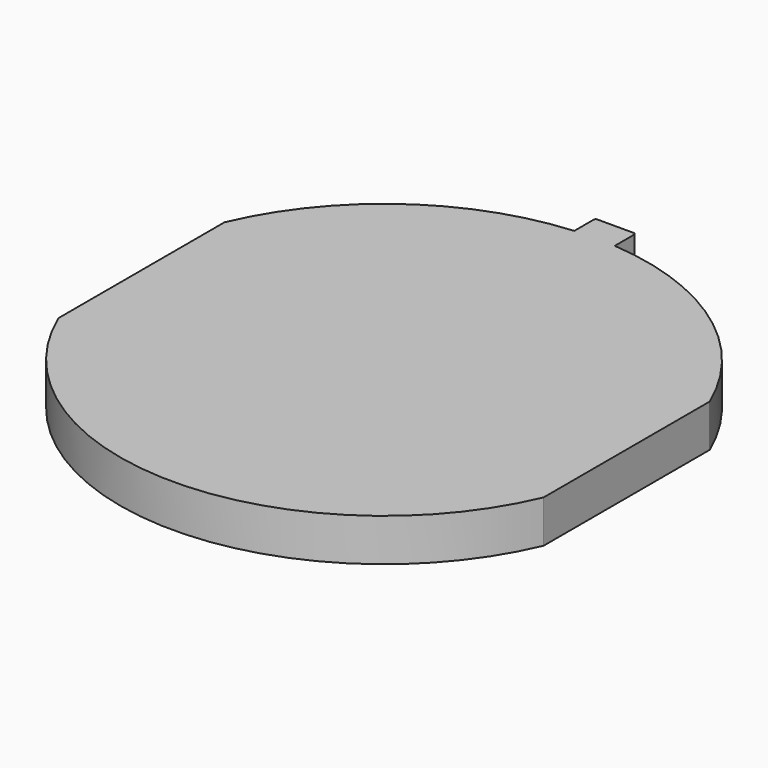
from build123d import *

# Parameters (mm, degrees)
F1_DEPTH = 5


with BuildPart() as f1:
    # F0 (on Top) → F1 (new body)
    with BuildSketch(Plane.XY):
        with BuildLine():
            Line((-2.38, 33.75), (-2.38, 30.908504))
            ThreePointArc((-2.38, 30.908504), (-18.053535, 25.200592), (-28.5, 12.196311))
            Line((-28.5, 12.196311), (-28.5, -12.196311))
            ThreePointArc((-28.5, -12.196311), (0, -31), (28.5, -12.196311))
            Line((28.5, -12.196311), (28.5, 12.196311))
            ThreePointArc((28.5, 12.196311), (18.053535, 25.200592), (2.38, 30.908504))
            Line((2.38, 30.908504), (2.38, 33.75))
            ThreePointArc((2.38, 33.75), (2.306777, 33.926777), (2.13, 34))
            Line((2.13, 34), (-2.13, 34))
            ThreePointArc((-2.13, 34), (-2.306777, 33.926777), (-2.38, 33.75))
        make_face()
    extrude(amount=F1_DEPTH)


solid = f1.part
